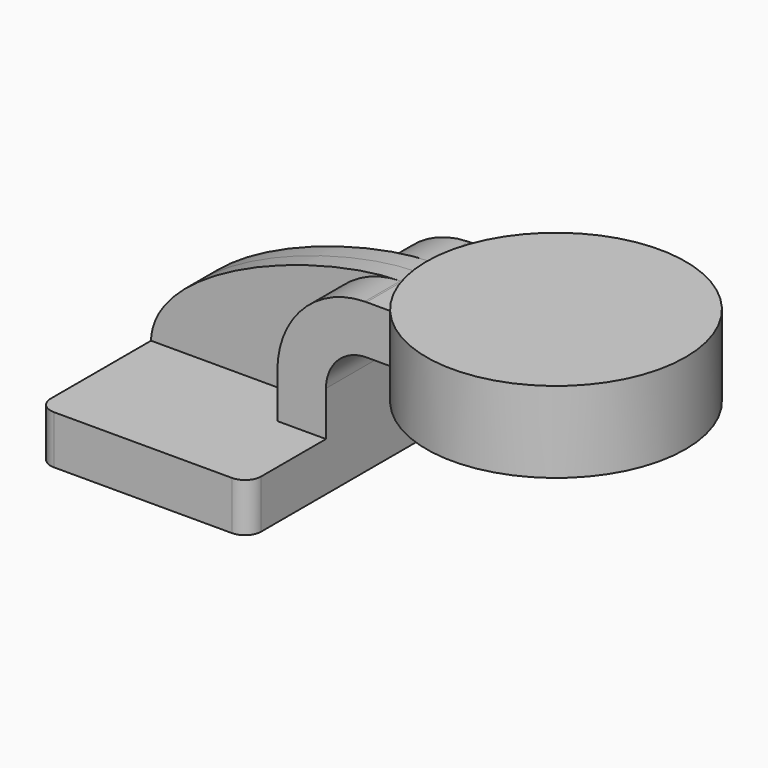
from build123d import *

# Parameters (mm, degrees)
F1_DEPTH = 63.5
F0_W     = 25.4
F0_H     = 19.05
F2_DEPTH = 25.4
F3_DEPTH = 7.9375
F5_R     = 6.35


with BuildPart() as f1:
    # F0 (on Front) → F1 (new body, symmetric)
    with BuildSketch(Plane.XZ):
        Polygon((41.275, -9.525), (41.275, 9.525), (22.225, 9.525), (-41.275, 9.525), (-41.275, -9.525), align=None)
    extrude(amount=F1_DEPTH, both=True)

    # F0 (on Front) → F2 (join, symmetric)
    with BuildSketch(Plane.XZ):
        with BuildLine():
            Line((22.225, 9.525), (41.275, 9.525))
            Line((41.275, 9.525), (41.275, 27.0002))
            ThreePointArc((41.275, 27.0002), (45.92468, 38.22552), (57.15, 42.8752))
            Line((57.15, 42.8752), (60.325, 42.8752))
            Line((60.325, 42.8752), (60.325, 61.9252))
            Line((60.325, 61.9252), (57.15, 61.9252))
            add(Edge.make_bspline(
                [(57.15, 61.9252), (56.922648, 61.924048), (56.693839, 61.921797), (56.463602, 61.918454)],
                knots=[0, 0, 0, 0, 0.762586, 0.762586, 0.762586, 0.762586], degree=3))
            ThreePointArc((56.463602, 61.918454), (32.212798, 51.452022), (22.225, 27.0002))
            Line((22.225, 27.0002), (22.225, 9.525))
        make_face()
        with Locations((73.025, 52.4002)):
            Rectangle(F0_W, F0_H)
    extrude(amount=F2_DEPTH, both=True)

    # F0 (on Front) → F3 (join, symmetric)
    with BuildSketch(Plane.XZ):
        with BuildLine():
            Line((-41.275, 9.525), (22.225, 9.525))
            Line((22.225, 9.525), (22.225, 27.0002))
            ThreePointArc((22.225, 27.0002), (32.212798, 51.452022), (56.463602, 61.918454))
            add(Edge.make_bspline(
                [(56.463602, 61.918454), (23.028944, 61.433027), (-40.496569, 37.915049), (-41.275, 9.525)],
                knots=[0.762586, 0.762586, 0.762586, 0.762586, 111.504536, 111.504536, 111.504536, 111.504536], degree=3))
        make_face()
    extrude(amount=F3_DEPTH, both=True)

    # F5
    f5_edges = [f1.edges().sort_by_distance(p)[0] for p in [
        (41.275, -63.5, 0),
        (-41.275, -63.5, 0),
        (-41.275, 63.5, 0),
        (41.275, 63.5, 0),
    ]]
    fillet(f5_edges, radius=F5_R)


with BuildPart() as f4:
    # F0 (on Front) → F4 (revolve)
    with BuildSketch(Plane.XZ):
        Polygon((85.725, 42.8752), (60.325, 42.8752), (60.325, 34.925), (111.125, 34.925), (111.125, 66.675), (60.325, 66.675), (60.325, 61.9252), (85.725, 61.9252), align=None)
        with Locations((73.025, 52.4002)):
            Rectangle(F0_W, F0_H)
    revolve(axis=Axis((111.125, 0, 50.8), (0, 0, 1)))


solid = Compound([f1.part, f4.part])
